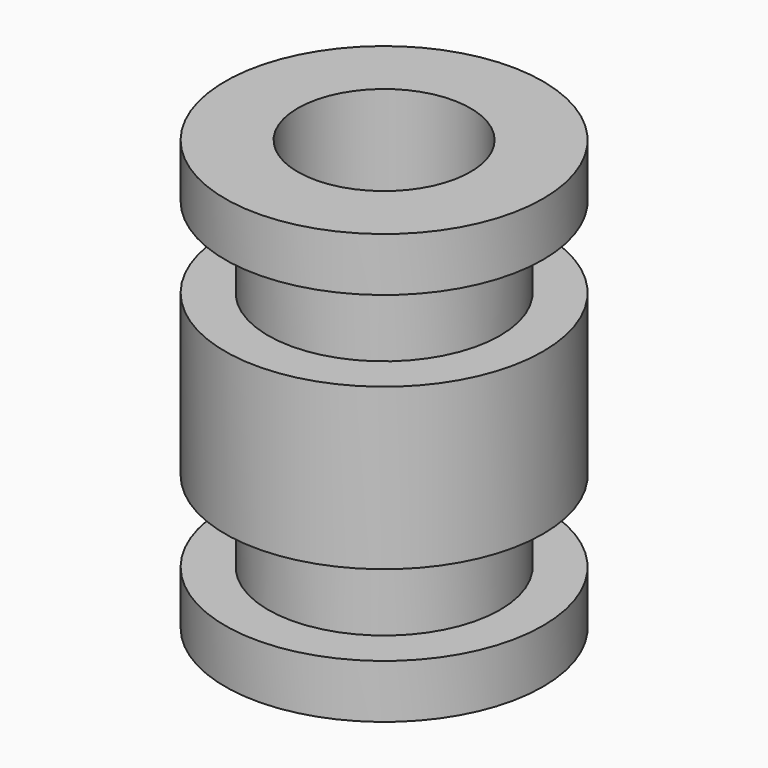
from build123d import *

# Parameters (mm, degrees)
F3_D = 5.1054


with BuildPart() as f1:
    # F0 (on Front) → F1 (revolve)
    with BuildSketch(Plane.XZ):
        Polygon((0, 12.7), (0, 6.35), (0, 0), (4.699, 0), (4.699, 1.5875), (3.429, 1.5875), (3.429, 3.9751), (4.699, 3.9751), (4.699, 6.35), (4.699, 8.7249), (3.429, 8.7249), (3.429, 11.1125), (4.699, 11.1125), (4.699, 12.7), align=None)
    revolve(axis=Axis((0, 0, 3.175), (0, 0, -1)))

    # F3 (through all)
    with Locations(Plane(origin=(0, 0, 0), x_dir=(1, 0, 0), z_dir=(0, 0, -1))):
        with Locations((0, 0)):
            Hole(F3_D / 2)


solid = f1.part
